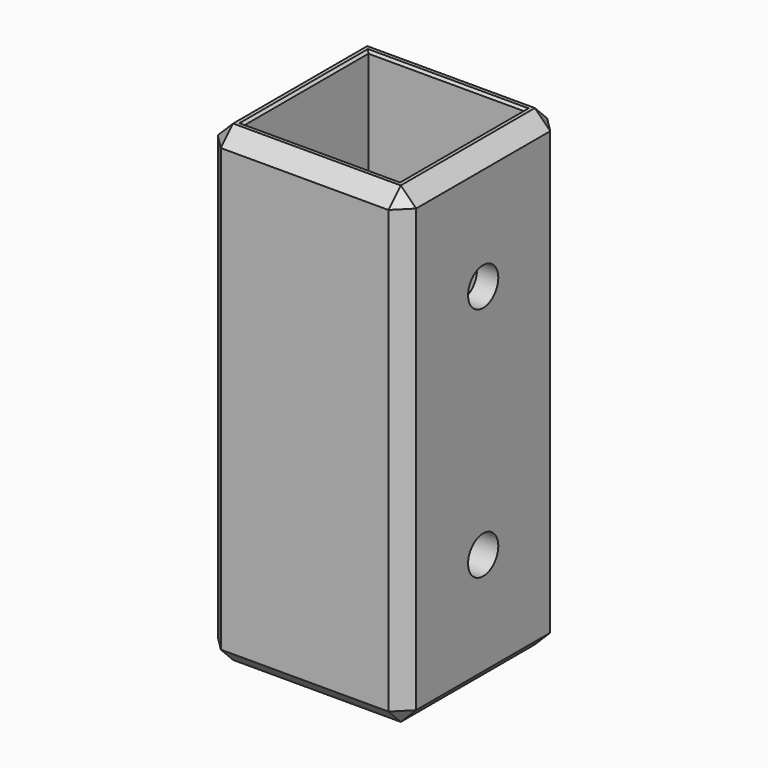
from build123d import *

# Parameters (mm, degrees)
F0_W     = 16.8
F0_H     = 16.8
F0_W_2   = 12.4
F0_H_2   = 12.4
F3_DEPTH = 20
F2_W     = 16.8
F2_H     = 16.8
F2_W_2   = 13.2
F2_H_2   = 13.2
F4_DEPTH = 20
F5_R     = 1.6
F6_DEPTH = 25
F7_R     = 4.5
F8_DEPTH = 2.5
F9_SIZE  = 0.2
F10_R    = 1
F11_SIZE = 1.3


with BuildPart() as f3:
    # F0 (on Top) → F3 (new body)
    with BuildSketch(Plane.XY):
        Rectangle(F0_W, F0_H)
        Rectangle(F0_W_2, F0_H_2, mode=Mode.SUBTRACT)
    extrude(amount=F3_DEPTH)

    # F2 (on offset) → F4 (join)
    with BuildSketch(Plane.XY.offset(40)):
        Rectangle(F2_W, F2_H)
        Rectangle(F2_W_2, F2_H_2, mode=Mode.SUBTRACT)
    extrude(amount=-F4_DEPTH)

    # F5 (on face) → F6 (cut)
    with BuildSketch(Plane.YZ.offset(8.4)):
        with Locations((0, 30)):
            Circle(F5_R)
        with Locations((0, 10)):
            Circle(F5_R)
    extrude(amount=-F6_DEPTH, mode=Mode.SUBTRACT)

    # F7 (on face) → F8 (join)
    with BuildSketch(Plane(origin=(-8.4, 0, 0), x_dir=(0, -1, 0), z_dir=(-1, 0, 0))):
        with Locations((0, 10)):
            Circle(F7_R)
        Polygon((0, 13.2), (2.771281, 11.6), (2.771281, 8.4), (0, 6.8), (-2.771281, 8.4), (-2.771281, 11.6), align=None, mode=Mode.SUBTRACT)
        with Locations((0, 30)):
            Circle(F7_R)
        Polygon((0, 33.2), (2.771281, 31.6), (2.771281, 28.4), (0, 26.8), (-2.771281, 28.4), (-2.771281, 31.6), align=None, mode=Mode.SUBTRACT)
    extrude(amount=F8_DEPTH)

    # F9
    f9_edges = [f3.edges().sort_by_distance(p)[0] for p in [
        (0, 6.6, 40),
        (-6.6, 0, 40),
        (0, -6.6, 40),
        (6.6, 0, 40),
        (0, -6.2, 0),
        (6.2, 0, 0),
        (0, 6.2, 0),
        (-6.2, 0, 0),
    ]]
    chamfer(f9_edges, length=F9_SIZE)

    # F10
    f10_edges = [f3.edges().sort_by_distance(p)[0] for p in [
        (-8.4, 4.5, 10),
        (-10.9, 4.5, 10),
        (-10.9, 4.5, 30),
        (-8.4, 4.5, 30),
    ]]
    fillet(f10_edges, radius=F10_R)

    # F11
    f11_edges = [f3.edges().sort_by_distance(p)[0] for p in [
        (8.4, 8.4, 20),
        (0, 8.4, 40),
        (-8.4, 8.4, 20),
        (0, 8.4, 0),
        (-8.4, -8.4, 20),
        (0, -8.4, 40),
        (8.4, -8.4, 20),
        (0, -8.4, 0),
        (8.4, 0, 0),
        (-8.4, 0, 0),
        (-8.4, 0, 40),
        (8.4, 0, 40),
    ]]
    chamfer(f11_edges, length=F11_SIZE)


solid = f3.part
